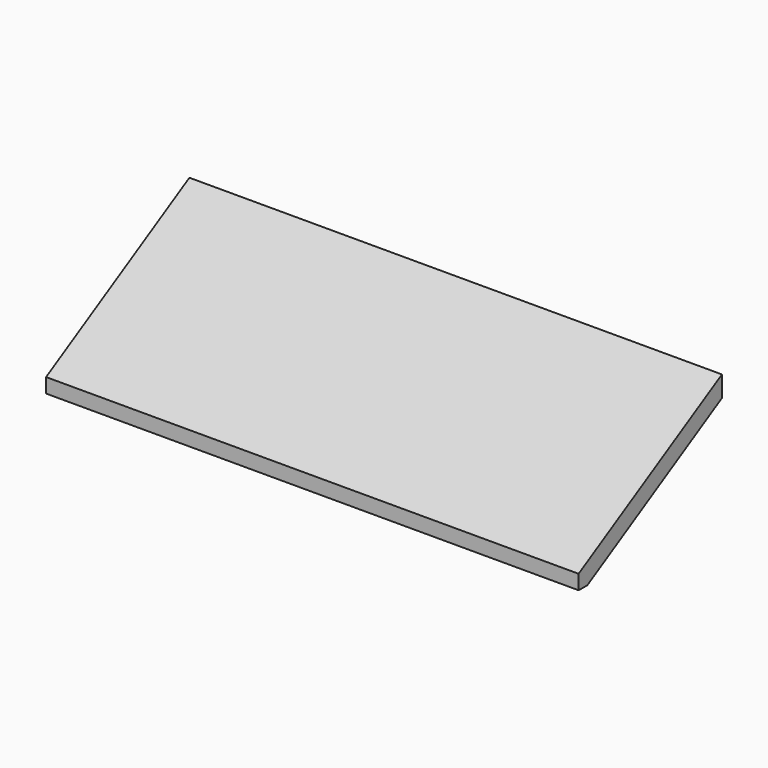
from build123d import *

# Parameters (mm, degrees)
F0_W     = 70
F0_H     = 28.9502215247
F1_DEPTH = 17.5
F3_DEPTH = 70.001
F5_DEPTH = 70.001
F6_SCALE = 1.5


with BuildPart() as f1:
    # F0 (on Top) → F1 (new body)
    with BuildSketch(Plane.XY):
        with Locations((-18.1001285091, -2.3733787239)):
            Rectangle(F0_W, F0_H)
    extrude(amount=F1_DEPTH)

    # F2 (on face) → F3 (cut, through all)
    with BuildSketch(Plane.YZ.offset(16.8998714909)):
        Polygon((-16.8484894862, 17.5), (-16.8484894862, 1.9115059404), (10.3485193104, 17.5), align=None)
        Polygon((12.1017320385, 15.7691705972), (-15.4105003687, 0), (12.1017320385, 0), align=None)
    extrude(amount=-F3_DEPTH, mode=Mode.SUBTRACT)

    # F4 (on face) → F5 (cut, through all)
    with BuildSketch(Plane.YZ.offset(16.8998714909)):
        Polygon((10.3485193104, 17.5), (6.6982309879, 15.4077663189), (6.6982309879, 12.6720489741), (12.1017320385, 15.7691705972), (12.1017320385, 17.5), align=None)
    extrude(amount=-F5_DEPTH, mode=Mode.SUBTRACT)


with BuildPart() as f1_1:
    # F6: moved
    add(f1.part.scale(F6_SCALE).moved(Location((-8.4499357454, 8.4242447431, -0.9557529702))))


solid = f1_1.part
